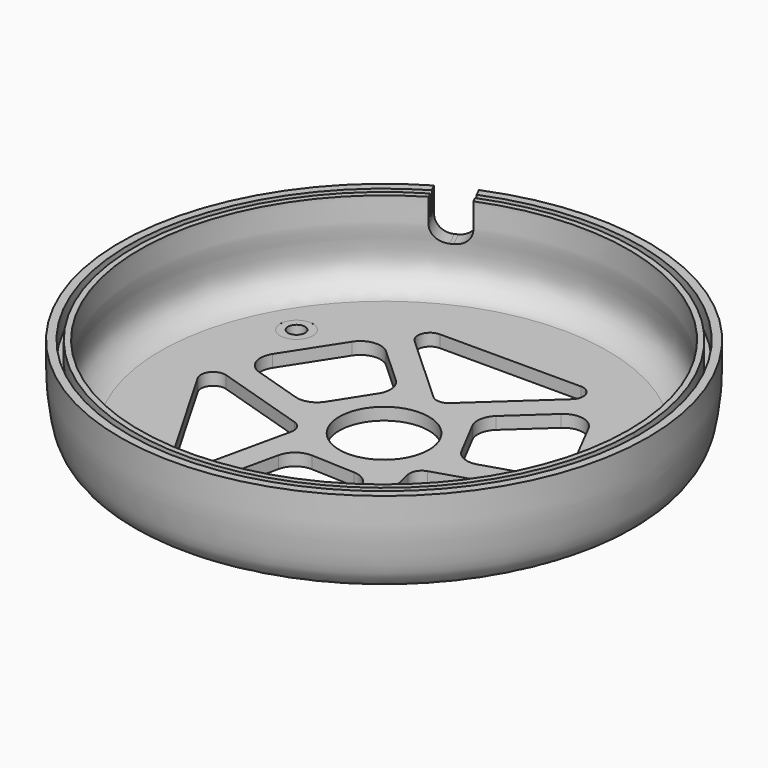
from build123d import *

# Parameters (mm, degrees)
F1_DEPTH = 2.8194
F3_R     = 69.85
F3_R_2   = 5.08
F3_R_3   = 13.97
F4_DEPTH = 3.81
F8_DEPTH = 12.7
F9_R     = 5.08


with BuildPart() as f1:
    # F0 (on Top) → F1 (new body)
    with BuildSketch(Plane.XY):
        with BuildLine():
            ThreePointArc((51.9916555616, 26.9386086546), (52.5359292261, 25.8611102744), (53.0578753091, 24.7726210151))
            ThreePointArc((53.0578753091, 24.7726210151), (55.0543717259, 26.6432255491), (55.7911, 29.2780672359))
            ThreePointArc((55.7911, 29.2780672359), (53.1550628068, 33.7315429346), (47.982656772, 33.563157381))
            ThreePointArc((47.982656772, 33.563157381), (48.6643430808, 32.566894184), (49.3253472183, 31.5567901739))
            ThreePointArc((49.3253472183, 31.5567901739), (52.0182125298, 31.6027921303), (53.3781, 29.2780672359))
            ThreePointArc((53.3781, 29.2780672359), (53.0054551036, 27.9183526855), (51.9916555616, 26.9386086546))
        make_face()
        with BuildLine():
            ThreePointArc((47.982656772, 33.563157381), (46.3116909488, 26.7380672359), (53.0578753091, 24.7726210151))
            ThreePointArc((53.0578753091, 24.7726210151), (52.5359292261, 25.8611102744), (51.9916555616, 26.9386086546))
            ThreePointArc((51.9916555616, 26.9386086546), (48.4014102481, 27.9445672359), (49.3253472183, 31.5567901739))
            ThreePointArc((49.3253472183, 31.5567901739), (48.6643430808, 32.566894184), (47.982656772, 33.563157381))
        make_face()
    extrude(amount=F1_DEPTH)


with BuildPart() as f1b:
    # F0 (on Top) → F1, piece 2 (new body)
    with BuildSketch(Plane.XY):
        with BuildLine():
            ThreePointArc((-49.3253472183, 31.5567901739), (-48.6643430808, 32.566894184), (-47.982656772, 33.563157381))
            ThreePointArc((-47.982656772, 33.563157381), (-55.1105090512, 31.8180672359), (-53.0578753091, 24.7726210151))
            ThreePointArc((-53.0578753091, 24.7726210151), (-52.5359292261, 25.8611102744), (-51.9916555616, 26.9386086546))
            ThreePointArc((-51.9916555616, 26.9386086546), (-53.0207897519, 30.6115672359), (-49.3253472183, 31.5567901739))
        make_face()
        with BuildLine():
            ThreePointArc((-45.6311, 29.2780672359), (-46.2576243013, 31.7220300427), (-47.982656772, 33.563157381))
            ThreePointArc((-47.982656772, 33.563157381), (-48.6643430808, 32.566894184), (-49.3253472183, 31.5567901739))
            ThreePointArc((-49.3253472183, 31.5567901739), (-48.3863751056, 30.5851797657), (-48.0441, 29.2780672359))
            ThreePointArc((-48.0441, 29.2780672359), (-49.3513854496, 26.9837121323), (-51.9916555616, 26.9386086546))
            ThreePointArc((-51.9916555616, 26.9386086546), (-52.5359292261, 25.8611102744), (-53.0578753091, 24.7726210151))
            ThreePointArc((-53.0578753091, 24.7726210151), (-48.0762583132, 24.93479551), (-45.6311, 29.2780672359))
        make_face()
    extrude(amount=F1_DEPTH)


with BuildPart() as f1c:
    # F0 (on Top) → F1, piece 3 (new body)
    with BuildSketch(Plane.XY):
        with BuildLine():
            ThreePointArc((5.08, -58.5561344718), (5.0788044936, -58.445930499), (5.0752185372, -58.3357783961))
            ThreePointArc((5.0752185372, -58.3357783961), (3.8715861454, -58.4280044585), (2.6663083433, -58.4953988284))
            ThreePointArc((2.6663083433, -58.4953988284), (2.6668270802, -58.525764681), (2.667, -58.5561344718))
            ThreePointArc((2.667, -58.5561344718), (-0.0303697908, -61.222961552), (-2.6663083433, -58.4953988284))
            ThreePointArc((-2.6663083433, -58.4953988284), (-3.8715861454, -58.4280044585), (-5.0752185372, -58.3357783961))
            ThreePointArc((-5.0752185372, -58.3357783961), (-0.1102039728, -63.6349389654), (5.08, -58.5561344718))
        make_face()
        with BuildLine():
            ThreePointArc((2.6663083433, -58.4953988284), (3.8715861454, -58.4280044585), (5.0752185372, -58.3357783961))
            ThreePointArc((5.0752185372, -58.3357783961), (0, -53.4761344718), (-5.0752185372, -58.3357783961))
            ThreePointArc((-5.0752185372, -58.3357783961), (-3.8715861454, -58.4280044585), (-2.6663083433, -58.4953988284))
            ThreePointArc((-2.6663083433, -58.4953988284), (0, -55.8891344718), (2.6663083433, -58.4953988284))
        make_face()
    extrude(amount=F1_DEPTH)


with BuildPart() as f4:
    # F3 (on face) → F4 (new body)
    with BuildSketch(Plane.XY.offset(2.8194)):
        Circle(F3_R)
        with BuildLine():
            ThreePointArc((-24.6144380311, -42.5831846489), (-27.7548336857, -45.5232408122), (-31.6334501456, -43.6625018545))
            Line((-31.6334501456, -43.6625018545), (-53.5990856884, -5.6169050739))
            ThreePointArc((-53.5990856884, -5.6169050739), (-53.2726990748, -1.3293939802), (-49.1593604107, -0.0765074593))
            Line((-49.1593604107, -0.0765074593), (-20.7274785958, -8.9935886627))
            ThreePointArc((-20.7274785958, -8.9935886627), (-18.5692693762, -10.7219455096), (-18.1481917589, -13.4546690716))
            Line((-18.1481917589, -13.4546690716), (-24.6144380311, -42.5831846489))
        make_face(mode=Mode.SUBTRACT)
        with Locations((0, -58.5561344718)):
            Circle(F3_R_2, mode=Mode.SUBTRACT)
        with BuildLine():
            Line((-16.1834803579, -40.0956095608), (-12.8385823205, -25.0278390978))
            ThreePointArc((-12.8385823205, -25.0278390978), (-10.5037058007, -21.3650945637), (-6.3607198134, -20.0600991638))
            Line((-6.3607198134, -20.0600991638), (7.1900030864, -20.6555612912))
            ThreePointArc((7.1900030864, -20.6555612912), (10.9899241844, -22.1325329597), (13.1086176757, -25.6156326641))
            Line((13.1086176757, -25.6156326641), (16.5623666569, -41.0832655577))
            ThreePointArc((16.5623666569, -41.0832655577), (15.2217621802, -46.5578158136), (10.0547626209, -48.8094899511))
            Line((10.0547626209, -48.8094899511), (-10.2946072974, -47.8141653931))
            ThreePointArc((-10.2946072974, -47.8141653931), (-15.0328344066, -45.3234602056), (-16.1834803579, -40.0956095608))
        make_face(mode=Mode.SUBTRACT)
        with BuildLine():
            ThreePointArc((49.1853386955, -0.0251363103), (53.3016998488, -1.2747706436), (53.6295608716, -5.5641205082))
            Line((53.6295608716, -5.5641205082), (31.6639253288, -43.6097172888))
            ThreePointArc((31.6639253288, -43.6097172888), (27.7876384959, -45.4708137368), (24.6459376087, -42.5350012198))
            Line((24.6459376087, -42.5350012198), (18.152415551, -13.453728689))
            ThreePointArc((18.152415551, -13.453728689), (18.5701118774, -10.7204862547), (20.726181095, -8.9894605602))
            Line((20.726181095, -8.9894605602), (49.1853386955, -0.0251363103))
        make_face(mode=Mode.SUBTRACT)
        with Locations((-50.7111, 29.2780672359)):
            Circle(F3_R_2, mode=Mode.SUBTRACT)
        with BuildLine():
            ThreePointArc((-15.2554533003, 23.632457987), (-13.250861746, 19.7790233391), (-14.1921955716, 15.5385945267))
            Line((-14.1921955716, 15.5385945267), (-21.4832423508, 4.1010553195))
            ThreePointArc((-21.4832423508, 4.1010553195), (-24.6622978854, 1.5487129505), (-28.738097459, 1.4554204164))
            Line((-28.738097459, 1.4554204164), (-43.8603349718, 6.1982025072))
            ThreePointArc((-43.8603349718, 6.1982025072), (-47.9311323294, 10.0964751683), (-47.2976395539, 15.6970651168))
            Line((-47.2976395539, 15.6970651168), (-36.2609782425, 32.8224741381))
            ThreePointArc((-36.2609782425, 32.8224741381), (-31.7348507222, 35.6805465898), (-26.632076281, 34.063109892))
            Line((-26.632076281, 34.063109892), (-15.2554533003, 23.632457987))
        make_face(mode=Mode.SUBTRACT)
        with BuildLine():
            ThreePointArc((-24.5709006645, 42.6083209592), (-25.5468661631, 46.7980114557), (-21.996110726, 49.2266223627))
            Line((-21.996110726, 49.2266223627), (21.9351603595, 49.2266223627))
            ThreePointArc((21.9351603595, 49.2266223627), (25.4850605789, 46.8002077171), (24.513422802, 42.6115086791))
            Line((24.513422802, 42.6115086791), (2.5750630448, 22.4473173517))
            ThreePointArc((2.5750630448, 22.4473173517), (-0.0008425013, 21.4424317643), (-2.5779893361, 22.4441296318))
            Line((-2.5779893361, 22.4441296318), (-24.5709006645, 42.6083209592))
        make_face(mode=Mode.SUBTRACT)
        Circle(F3_R_3, mode=Mode.SUBTRACT)
        with BuildLine():
            Line((42.8155566388, 6.0324996689), (28.0940356207, 1.3953811108))
            ThreePointArc((28.0940356207, 1.3953811108), (23.7545675467, 1.5860712245), (20.552915385, 4.5215046371))
            Line((20.552915385, 4.5215046371), (14.2932392645, 16.5545059717))
            ThreePointArc((14.2932392645, 16.5545059717), (13.672373701, 20.5838200092), (15.6294797833, 24.1602122477))
            Line((15.6294797833, 24.1602122477), (27.2979683149, 34.8850630505))
            ThreePointArc((27.2979683149, 34.8850630505), (32.7093701491, 36.4613406452), (37.2428769329, 33.1124248343))
            Line((37.2428769329, 33.1124248343), (46.5555855399, 14.991691255))
            ThreePointArc((46.5555855399, 14.991691255), (46.7676851288, 9.6429136158), (42.8155566388, 6.0324996689))
        make_face(mode=Mode.SUBTRACT)
        with Locations((50.7111, 29.2780672359)):
            Circle(F3_R_2, mode=Mode.SUBTRACT)
    extrude(amount=-F4_DEPTH)

    # F5 (on Front) → F6 (revolve)
    with BuildSketch(Plane.XZ):
        with BuildLine():
            Line((77.978, 28.448), (76.2, 28.448))
            add(Edge.make_bspline(
                [(69.6177169685, 2.8170206211), (70.8861220265, 2.9258294055), (75.0533361336, 5.2378168257), (78.005198326, 10.9595203261), (75.6004258398, 20.5161968407), (76.3927631194, 26.3103364855), (76.2, 28.448)],
                knots=[0, 0, 0, 0, 0.2173325709, 0.4483566775, 0.7388495437, 1, 1, 1, 1], degree=3))
            Line((69.6177169685, 2.8170206211), (69.654977657, -0.9531766102))
            add(Edge.make_bspline(
                [(69.654977657, -0.9531766102), (76.2, 0), (80.3492052019, 4.1110551488), (81.6172539533, 11.3391322919), (82.5969052875, 20.7350388839), (82.0635471958, 25.7050215893), (82.296, 28.448)],
                knots=[0, 0, 0, 0, 0.2894400842, 0.506534666, 0.7634682845, 1, 1, 1, 1], degree=3))
            Line((82.296, 28.448), (79.756, 28.448))
            Line((79.756, 28.448), (79.756, 22.098))
            Line((79.756, 22.098), (77.978, 22.098))
            Line((77.978, 22.098), (77.978, 28.448))
        make_face()
    revolve(axis=Axis((0, 0, 14.224), (0, 0, 1)))

    # F7 (on face) → F8 (cut)
    with BuildSketch(Plane.XY.offset(28.448)):
        with BuildLine():
            Line((-37.7499782503, 63.8462644404), (-32.7392712046, 66.319836534))
            Line((-32.7392712046, 66.319836534), (-33.6180934528, 68.1000639397))
            ThreePointArc((-33.6180934528, 68.1000639397), (-36.1023575987, 66.8162756506), (-38.5376760185, 65.4419012796))
            Line((-38.5376760185, 65.4419012796), (-37.7499782503, 63.8462644404))
        make_face()
        with BuildLine():
            Line((-27.7285641589, 68.7934086275), (-32.7392712046, 66.319836534))
            Line((-32.7392712046, 66.319836534), (-37.7499782503, 63.8462644404))
            Line((-37.7499782503, 63.8462644404), (-38.5376760185, 65.4419012796))
            ThreePointArc((-38.5376760185, 65.4419012796), (-37.6896044892, -65.9339717403), (75.946, 0))
            ThreePointArc((75.946, 0), (42.4387728834, 62.9821043802), (-28.516261927, 70.3890454667))
            Line((-28.516261927, 70.3890454667), (-27.7285641589, 68.7934086275))
        make_face()
        with BuildLine():
            Line((-33.6180934528, 68.1000639397), (-32.7392712046, 66.319836534))
            Line((-32.7392712046, 66.319836534), (-27.7285641589, 68.7934086275))
            Line((-27.7285641589, 68.7934086275), (-28.516261927, 70.3890454667))
            ThreePointArc((-28.516261927, 70.3890454667), (-31.088251619, 69.2915256527), (-33.6180934528, 68.1000639397))
        make_face()
        with BuildLine():
            ThreePointArc((-38.5376760185, 65.4419012796), (-36.1023575987, 66.8162756506), (-33.6180934528, 68.1000639397))
            Line((-33.6180934528, 68.1000639397), (-37.7830210822, 76.5369444626))
            Line((-37.7830210822, 76.5369444626), (-42.793728128, 74.063372369))
            Line((-42.793728128, 74.063372369), (-38.5376760185, 65.4419012796))
        make_face()
        with BuildLine():
            Line((-37.7830210822, 76.5369444626), (-33.6180934528, 68.1000639397))
            ThreePointArc((-33.6180934528, 68.1000639397), (-31.088251619, 69.2915256527), (-28.516261927, 70.3890454667))
            Line((-28.516261927, 70.3890454667), (-32.7723140365, 79.0105165561))
            Line((-32.7723140365, 79.0105165561), (-37.7830210822, 76.5369444626))
        make_face()
    extrude(amount=-F8_DEPTH, mode=Mode.SUBTRACT)

    # F9
    f9_edges = [f4.edges().sort_by_distance(p)[0] for p in [
        (-30.050482, 73.496911, 15.748),
        (-40.071896, 68.549766, 15.748),
    ]]
    fillet(f9_edges, radius=F9_R)


solid = Compound([f1.part, f1b.part, f1c.part, f4.part])
